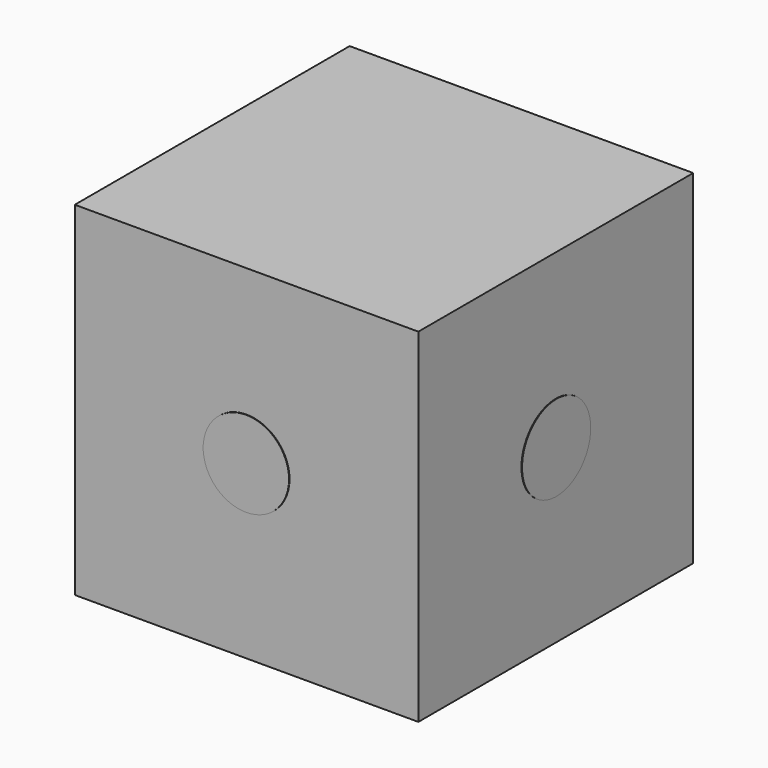
from build123d import *

# Parameters (mm, degrees)
F0_W     = 152.4
F0_H     = 152.4
F1_DEPTH = 152.4
F2_R     = 19.05
F3_DEPTH = 0.254
F4_R     = 19.05
F5_DEPTH = 0.254
F6_R     = 19.05
F7_DEPTH = 0.254


with BuildPart() as f1:
    # F0 (on Top) → F1 (new body)
    with BuildSketch(Plane.XY):
        with Locations((76.2, -76.2)):
            Rectangle(F0_W, F0_H)
    extrude(amount=F1_DEPTH)

    # F2 (on face) → F3 (join)
    with BuildSketch(Plane.XZ.offset(152.4)):
        with Locations((76.2, 76.2)):
            Circle(F2_R)
    extrude(amount=F3_DEPTH)

    # F4 (on face) → F5 (join)
    with BuildSketch(Plane.YZ.offset(152.4)):
        with Locations((-76.2, 76.2)):
            Circle(F4_R)
    extrude(amount=F5_DEPTH)

    # F6 (on face) → F7 (join)
    with BuildSketch(Plane(origin=(0, 0, 0), x_dir=(1, 0, 0), z_dir=(0, 0, -1))):
        with Locations((76.2, 76.2)):
            Circle(F6_R)
    extrude(amount=F7_DEPTH)


solid = f1.part
